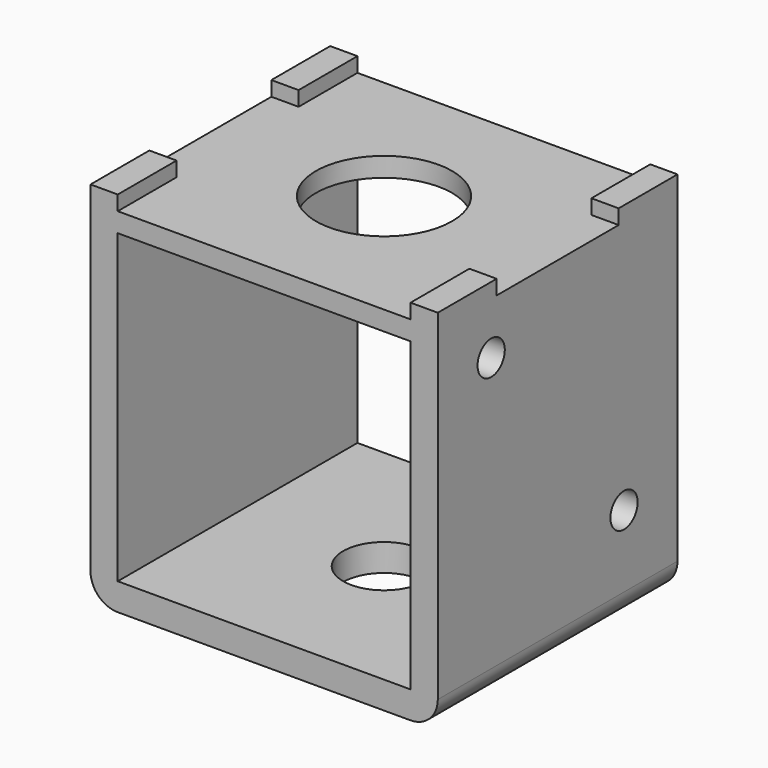
from build123d import *

# Parameters (mm, degrees)
F0_W     = 25.5
F0_H     = 22
F0_R     = 3
F1_DEPTH = 2
F2_W     = 2
F2_H     = 5.4
F3_DEPTH = 25
F2_H_2   = 11.2
F4_DEPTH = 22.5
F5_R     = 2
F6_R     = 5
F7_DEPTH = 1.42
F8_R     = 1.25
F9_DEPTH = 2


with BuildPart() as f1:
    # F0 (on Top) → F1 (new body)
    with BuildSketch(Plane.XY):
        Rectangle(F0_W, F0_H)
        Circle(F0_R, mode=Mode.SUBTRACT)
    extrude(amount=F1_DEPTH)

    # F2 (on face) → F3 (join)
    with BuildSketch(Plane.XY.offset(2)):
        with Locations((-11.75, 8.3)):
            Rectangle(F2_W, F2_H)
        with Locations((11.75, 8.3)):
            Rectangle(F2_W, F2_H)
        with Locations((11.75, -8.3)):
            Rectangle(F2_W, F2_H)
        with Locations((-11.75, -8.3)):
            Rectangle(F2_W, F2_H)
    extrude(amount=F3_DEPTH)

    # F2 (on face) → F4 (join)
    with BuildSketch(Plane.XY.offset(2)):
        with Locations((11.75, 0)):
            Rectangle(F2_W, F2_H_2)
        with Locations((-11.75, 0)):
            Rectangle(F2_W, F2_H_2)
    extrude(amount=F4_DEPTH)

    # F5
    f5_edges = [f1.edges().sort_by_distance(p)[0] for p in [
        (12.75, 0, 0),
        (-12.75, 0, 0),
    ]]
    fillet(f5_edges, radius=F5_R)

    # F6 (on face) → F7 (join)
    with BuildSketch(Plane.XY.offset(24.5)):
        Polygon((10.75, -5.6), (12.75, -5.6), (12.75, 5.6), (10.75, 5.6), (10.75, 11), (-10.75, 11), (-10.75, 5.6), (-12.75, 5.6), (-12.75, -5.6), (-10.75, -5.6), (-10.75, -11), (10.75, -11), align=None)
        Circle(F6_R, mode=Mode.SUBTRACT)
    extrude(amount=F7_DEPTH)

    # F8 (on face) → F9 (cut, through all)
    with BuildSketch(Plane.YZ.offset(12.75)):
        with Locations((-6.1, 22.1)):
            Circle(F8_R)
        with Locations((6.092, 7.2918)):
            Circle(F8_R)
    extrude(amount=-F9_DEPTH, mode=Mode.SUBTRACT)


solid = f1.part
